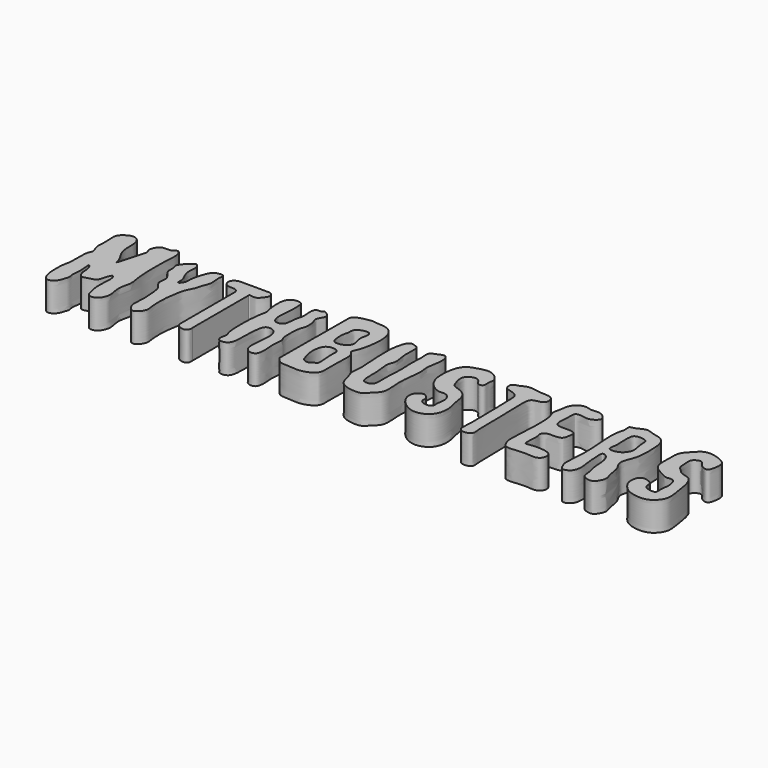
from build123d import *

# Parameters (mm, degrees)
F2_DEPTH = 25.4


with BuildPart() as f2:
    # F1 (on Top) → F2 (new body)
    with BuildSketch(Plane.XY):
        with BuildLine():
            Line((-142.2860773452, -38.4094014174), (-142.2860773452, 23.3894499195))
            add(Edge.make_bspline(
                [(-152.6713359637, 21.594526115), (-153.1771803693, 22.7217631285), (-154.2988937397, 25.2212082836), (-159.9560561375, 24.8308472419), (-164.5034474924, 25.7344627276), (-166.622161351, 31.1073537747), (-163.5537992646, 34.7677524375), (-158.8993441418, 36.2689247946), (-141.4377117289, 35.3749228579), (-132.3859870797, 36.1046084178), (-130.6364055116, 33.3203416743), (-129.9094437676, 30.6511102336), (-132.3672605109, 27.1683127657), (-135.557679478, 23.4682464959), (-138.8716361115, 23.5761678577), (-142.2860773452, 24.353656997), (-142.2860773452, 23.3894499195)],
                knots=[0, 0, 0, 0, 0.0606980225, 0.134584821, 0.2032211881, 0.2743306838, 0.3391929787, 0.4096821174, 0.5473789637, 0.6434270284, 0.6952755767, 0.7463145401, 0.8124020484, 0.8822938121, 0.943952033, 1, 1, 1, 1], degree=3))
            Line((-152.6713359637, 21.594526115), (-152.6713359637, -39.0504685656))
            add(Edge.make_bspline(
                [(-152.6713359637, -39.0504685656), (-152.6713359637, -40.6180419187), (-150.2444642261, -43.0213629379), (-146.2265683695, -44.1348665615), (-142.6522184864, -43.1346027378), (-141.9544729437, -39.9158529267), (-142.2860773452, -38.4094014174)],
                knots=[0, 0, 0, 0, 0.2627475795, 0.5172364834, 0.7398417054, 1, 1, 1, 1], degree=3))
        make_face()
    extrude(amount=F2_DEPTH)


with BuildPart() as f2b:
    # F1 (on Top) → F2, piece 2 (new body)
    with BuildSketch(Plane.XY):
        with BuildLine():
            Line((-67.4247886071, 37.9885549829), (-67.8143637068, -35.8599349881))
            add(Edge.make_bspline(
                [(-67.8143637068, -35.8599349881), (-66.5364691512, -37.7781511572), (-63.5911581325, -41.4856639391), (-56.5649347778, -41.1413050931), (-45.0834045278, -43.1078008538), (-31.9862146184, -37.4022844107), (-32.3049866124, -27.5846030255), (-32.358463573, -13.7024485138), (-31.158540556, -1.3574494584), (-36.456203923, 1.6750159998), (-33.155421013, 7.1651840201), (-31.2479674537, 14.1566456962), (-29.3139291446, 27.3409560098), (-30.8330061337, 38.1534524257), (-37.3335068189, 46.064669939), (-48.3838271485, 45.7075467818), (-51.3372279491, 46.9601499373), (-60.2383692366, 45.343346675), (-67.096746331, 42.9655372685), (-67.4167546076, 39.5114929975), (-67.4247886071, 37.9885549829)],
                knots=[0, 0, 0, 0, 0.049068684, 0.0978564456, 0.1643740975, 0.2321875566, 0.2883539028, 0.3622279897, 0.4279116504, 0.4680293196, 0.5112853989, 0.5643612628, 0.6344777638, 0.697905335, 0.7566658026, 0.817596262, 0.8525039752, 0.9095835984, 0.9600192561, 1, 1, 1, 1], degree=3))
        make_face()
        with BuildLine():
            add(Edge.make_bspline(
                [(-55.9800590662, -7.6233818672), (-56.697632945, -10.3012880669), (-56.9747754002, -16.7373779921), (-54.7405638202, -23.7835299725), (-53.7597568001, -27.4048527781), (-48.5915541423, -30.0694560442), (-45.0751061317, -26.0838641959), (-41.389653836, -26.1639191802), (-43.0339995778, -14.6687681462), (-43.085650511, -9.286578905), (-42.4296034605, -3.6615654466), (-46.7915258454, -1.0653821027), (-53.5317703636, -2.1120353066), (-55.4130045408, -5.5071972149), (-55.9800590662, -7.6233818672)],
                knots=[0, 0, 0, 0, 0.1067302172, 0.2022289415, 0.2691989472, 0.3453617744, 0.4214403266, 0.4772005519, 0.5891606873, 0.6780884871, 0.7554834837, 0.8282487132, 0.9156576703, 1, 1, 1, 1], degree=3))
        make_face(mode=Mode.SUBTRACT)
        with BuildLine():
            add(Edge.make_bspline(
                [(-47.2923524368, 6.0287273361), (-45.7072097202, 6.447780633), (-40.6990830577, 8.7043724838), (-41.0768874086, 15.605416251), (-43.2763380367, 21.5305298637), (-41.6047587324, 26.0548313396), (-41.5765616766, 32.2476702785), (-49.0185812803, 31.8382029118), (-55.0454182301, 28.2793601376), (-53.9774746473, 22.2369826412), (-55.9581287975, 19.1281794579), (-55.5731919073, 5.0363155172), (-49.7661842443, 5.8186070949), (-48.3297823647, 5.7544691087), (-47.2923524368, 6.0287273361)],
                knots=[0, 0, 0, 0, 0.0882352941, 0.1767318524, 0.2648009033, 0.3430150379, 0.4199903602, 0.5072138503, 0.5972574998, 0.676387487, 0.7484876141, 0.8714797493, 0.9422525595, 1, 1, 1, 1], degree=3))
        make_face(mode=Mode.SUBTRACT)
    extrude(amount=F2_DEPTH)


with BuildPart() as f2c:
    # F1 (on Top) → F2, piece 3 (new body)
    with BuildSketch(Plane.XY):
        with BuildLine():
            add(Edge.make_bspline(
                [(-269.3963035655, -37.9042096753), (-270.8515346037, -31.8916332857), (-270.0729861775, -17.7272889713), (-268.1355181955, -14.978017424), (-269.4040028396, 3.8906152953), (-265.9068546868, 6.9320694981), (-267.4915709173, 11.2140477768), (-269.3538442118, 15.4269560487), (-267.9739267583, 24.1477457688), (-269.6137838903, 34.4483798055), (-266.6849616505, 38.6804798542), (-260.5304565827, 42.6958350386), (-254.140674522, 41.8768188306), (-250.7347605869, 34.3975136903), (-251.9262665762, 23.0264973433), (-248.2661888663, 14.8215380309), (-244.4662537378, 9.7211690448), (-243.7956225347, 3.4488536951), (-242.0353095997, 9.405884512), (-239.1182474697, 20.053245978), (-237.3279316341, 27.3911664488), (-236.2263453229, 30.3512418723), (-239.0014091382, 33.6408894185), (-234.5921385711, 43.6732455824), (-225.350879306, 40.7573547661), (-220.9316834054, 46.4775447412), (-217.2326255324, 38.9307847005), (-218.7298088126, 28.7264681158), (-218.7150848075, 7.237339718), (-218.0422825547, -3.3512197097), (-215.5249105056, -13.6080166396), (-219.5891633255, -23.3316261242), (-216.4982325944, -33.729056986), (-217.3691329542, -38.9152997594), (-220.5179542967, -45.2855612155), (-228.3667517466, -46.2316560471), (-230.5354019835, -39.35293214), (-232.5352274531, -28.8185754235), (-230.4502735007, -15.7836437368), (-233.4701754007, -10.3658201351), (-236.2152194831, -17.7026288105), (-237.1868629743, -23.7921417511), (-241.9618312517, -24.8599040169), (-246.3636466157, -26.2713316398), (-249.5848835542, -26.8932864368), (-253.3108078013, -21.7118582654), (-252.2661557505, -14.5445037993), (-257.1582014104, -6.8317266703), (-254.3736099158, -20.2542199768), (-256.7234489893, -28.0696746856), (-254.758223057, -32.0486079397), (-256.6634425207, -36.048530493), (-257.7135113579, -41.4994437557), (-265.0721962803, -46.3539456911), (-268.4532099233, -41.8007885808), (-269.3963035655, -37.9042096753)],
                knots=[0, 0, 0, 0, 0.0312589605, 0.0461393167, 0.0758034148, 0.0902833681, 0.1040527544, 0.1191088212, 0.1402094938, 0.1628006218, 0.1782389883, 0.196950057, 0.2135288996, 0.2326110726, 0.2566173635, 0.2775850674, 0.2961550906, 0.3100249623, 0.3232683716, 0.3481460982, 0.367686444, 0.3791786983, 0.3926688438, 0.4134617737, 0.4338601451, 0.4494406795, 0.4660185494, 0.4896409369, 0.5224254328, 0.5459916993, 0.5681623436, 0.5909127768, 0.6135928199, 0.6297970632, 0.6479136597, 0.6653983581, 0.6826122413, 0.7064788844, 0.7326328474, 0.745505801, 0.7625734213, 0.7802532687, 0.7948766374, 0.8102748133, 0.8221547028, 0.8384345817, 0.8585674443, 0.8737006313, 0.8953182936, 0.9166987524, 0.9303884647, 0.9446296512, 0.9614303086, 0.9797419612, 1, 1, 1, 1], degree=3))
        make_face()
    extrude(amount=F2_DEPTH)


with BuildPart() as f2d:
    # F1 (on Top) → F2, piece 4 (new body)
    with BuildSketch(Plane.XY):
        with BuildLine():
            add(Edge.make_bspline(
                [(-196.052796467, -34.4425679741), (-196.0458743496, -31.5773795615), (-195.2389071824, -23.5677800638), (-196.2904474938, -14.5794404412), (-197.05014522, -5.6795061737), (-204.2380266958, -0.5306035032), (-199.7658369665, 8.6587644524), (-209.3653997117, 15.4332274826), (-207.0736791161, 23.1696796113), (-210.2212412896, 27.1797047342), (-204.0686022414, 33.8904181658), (-198.6156076382, 38.8212341026), (-195.3448478119, 31.9570795166), (-197.4088943131, 25.132712085), (-194.2040475571, 17.1071731185), (-191.8460255175, 13.0548449757), (-192.946609914, 5.9683059506), (-187.7375898593, 11.3847904826), (-188.8780255023, 16.9469288005), (-186.0338183168, 27.2693706043), (-182.8078920922, 35.8755907489), (-172.4829146647, 36.4028864938), (-175.0706716802, 30.4809880566), (-172.6517328789, 21.2346384546), (-176.3069421407, 14.558319315), (-177.1750848856, 8.3426350298), (-182.3880055684, 0.3925405485), (-182.8691704081, -9.4240553455), (-184.286147851, -14.2488743772), (-184.5963888574, -30.7530193609), (-182.0371036634, -37.4679879018), (-190.0096341097, -46.7939704073), (-195.6374427185, -39.4356985754), (-196.0576906332, -36.4683510204), (-196.052796467, -34.4425679741)],
                knots=[0, 0, 0, 0, 0.0375082757, 0.0730778076, 0.1065485782, 0.1377799875, 0.1702792279, 0.206402605, 0.2367307989, 0.2597302788, 0.2933536257, 0.3211464644, 0.3474877672, 0.3787256482, 0.411587405, 0.4380183054, 0.4620311462, 0.485863672, 0.5137802573, 0.5513662684, 0.5858039463, 0.6161321083, 0.6400852941, 0.6756319444, 0.7066446696, 0.7350674493, 0.7704680897, 0.8054975771, 0.8324478267, 0.8782103239, 0.9099038796, 0.9439103662, 0.9734804075, 1, 1, 1, 1], degree=3))
        make_face()
    extrude(amount=F2_DEPTH)


with BuildPart() as f2e:
    # F1 (on Top) → F2, piece 5 (new body)
    with BuildSketch(Plane.XY):
        with BuildLine():
            add(Edge.make_bspline(
                [(-118.1658581891, -37.9042096753), (-118.2874768501, -35.8230188029), (-116.3993075245, -30.804750907), (-120.2656763832, -28.8496250986), (-119.6104316548, 4.9314475971), (-116.540968752, 11.5836790678), (-119.2299051319, 17.9752740947), (-119.803552273, 34.3525590631), (-113.1737085073, 37.9282132563), (-106.6252746317, 37.4675796135), (-105.4964122906, 32.4747681038), (-105.7857397755, 20.7271092386), (-107.4719151093, 10.352796203), (-104.071103856, 3.1370128588), (-97.656060346, 4.2368164636), (-95.6026723726, 8.2915565441), (-95.4787177847, 17.8087162093), (-93.5953304489, 21.5747204482), (-93.8687083732, 26.255471616), (-94.8474395379, 36.85042883), (-87.6360143285, 34.997596673), (-87.255384668, 38.2544909003), (-78.321816408, 32.5074481011), (-86.0085590096, 24.9740821411), (-82.1245848435, 19.741422071), (-82.2367206798, 10.3653611289), (-84.9211043279, 6.6281661935), (-85.2724263162, -11.877274777), (-82.1801213492, -13.6380734294), (-83.6079118706, -21.3018553727), (-83.4351447225, -26.7923209684), (-82.7009772326, -31.9932644551), (-83.1251129135, -37.8450721864), (-84.4286805709, -41.8633112372), (-91.8260869822, -42.4602269348), (-95.9508491341, -33.8923689931), (-91.9571186824, -15.1569941773), (-95.2115518148, -6.2872990638), (-104.4605926235, -4.1642274752), (-106.8982613762, -14.8245691206), (-106.5995416175, -29.9960279597), (-107.7657128713, -40.8437962574), (-116.1691761433, -42.0882313395), (-118.0705138081, -39.5357837599), (-118.1658581891, -37.9042096753)],
                knots=[0, 0, 0, 0, 0.0224391273, 0.0388334109, 0.0887882579, 0.1130941086, 0.1352904784, 0.169674356, 0.1920148442, 0.2124818586, 0.2304068588, 0.26065852, 0.2897981441, 0.3121448314, 0.3317429327, 0.3498571441, 0.3766935528, 0.3943229853, 0.4138842059, 0.4394603087, 0.4587477463, 0.4701466869, 0.4931794381, 0.5179116368, 0.5389810301, 0.5644572899, 0.5848512701, 0.6211044049, 0.6365381164, 0.6596337697, 0.6808278177, 0.7008443659, 0.7220674271, 0.7388847204, 0.7596902706, 0.7845413, 0.8230509129, 0.8488232691, 0.8713172965, 0.8973876025, 0.932959569, 0.960212221, 0.982408582, 1, 1, 1, 1], degree=3))
        make_face()
    extrude(amount=F2_DEPTH)


with BuildPart() as f2f:
    # F1 (on Top) → F2, piece 6 (new body)
    with BuildSketch(Plane.XY):
        with BuildLine():
            add(Edge.make_bspline(
                [(-15.692201127, -22.4549976684), (-15.9740109594, -21.0610469308), (-15.678676264, -18.3983471173), (-15.0092400799, -11.7446465108), (-15.7474782963, -2.7870538064), (-16.5649462975, 10.5424559535), (-16.6514211224, 23.8354573385), (-14.414662468, 33.2171589032), (-11.4526364246, 38.1486197864), (-5.9697898314, 36.197766927), (-3.1060248476, 34.8973553816), (-3.3761363555, 27.4521986665), (-3.808804388, 19.1473393246), (-0.8526039571, 9.0265510305), (-4.8189188491, 3.344820962), (-2.8376328938, -5.8206729914), (-2.7853537181, -16.0096330283), (-2.7263824027, -25.1959463986), (-0.2207037138, -27.4924847945), (5.1207904464, -27.2930290223), (7.8341486693, -23.5042472009), (7.0320438197, -12.2996589484), (7.8210166818, -4.7409480095), (8.3501514199, 5.2179727164), (7.115245808, 16.4222673273), (8.6927956896, 24.7627571735), (6.516462009, 33.2426195361), (13.1712790767, 35.7661691212), (19.7479723097, 38.6998443071), (22.2271179091, 32.3808065208), (21.2699726311, 23.6655056352), (19.5503050514, 15.8837508306), (21.103409716, 8.8913878726), (20.0940562667, 0.0511187589), (18.8058659315, -10.5649307187), (19.1293590398, -16.854594381), (19.8728051342, -24.7540401311), (19.1659593804, -32.51773398), (11.524423446, -38.4068868931), (9.4526436075, -42.5350312447), (-4.1406613633, -42.3885682294), (-12.2095724362, -36.8662192805), (-13.1653461748, -28.7139633553), (-15.3313415257, -24.2399620295), (-15.692201127, -22.4549976684)],
                knots=[0, 0, 0, 0, 0.0173279886, 0.0392221168, 0.0652832586, 0.097118945, 0.1291087385, 0.15594508, 0.1745843465, 0.1938975517, 0.20828008, 0.2304261224, 0.2564732776, 0.2836640685, 0.305214346, 0.330858604, 0.3595571836, 0.3850011102, 0.3995023995, 0.4181687299, 0.4355617194, 0.4640593746, 0.4885837372, 0.5156817758, 0.5447649686, 0.5703963818, 0.5937397945, 0.6153208953, 0.6366738629, 0.6561187566, 0.6821799021, 0.7065626015, 0.7292227653, 0.7552324256, 0.7834584299, 0.8053289555, 0.8293963269, 0.8532570218, 0.8791184969, 0.89686488, 0.9272472072, 0.9536491995, 0.9778113807, 1, 1, 1, 1], degree=3))
        make_face()
    extrude(amount=F2_DEPTH)


with BuildPart() as f2g:
    # F1 (on Top) → F2, piece 7 (new body)
    with BuildSketch(Plane.XY):
        with BuildLine():
            add(Edge.make_bspline(
                [(45.0094272393, -16.8152370122), (46.1010376231, -17.5680087088), (48.9328981858, -19.8728025497), (47.1675845033, -24.1008972103), (51.8093209408, -27.9995035588), (59.5240366859, -26.8213687888), (58.2177912582, -21.4066679289), (60.8386038023, -12.7797925638), (55.6733042282, -5.7207284725), (49.0962285667, -7.3178027819), (41.7421414721, -4.045493163), (34.8020606149, 4.3920219978), (33.9065949935, 18.0301579845), (37.0585720364, 32.797535378), (46.4324592285, 36.2788304693), (52.7055023144, 37.9367557839), (59.8478044852, 38.8711203911), (69.1686697811, 30.8620408815), (66.3934604295, 25.6185840654), (68.2070454609, 19.3035523735), (62.2599961856, 17.6388657008), (59.9723538795, 23.924609988), (54.1918209343, 25.4027145342), (46.6867872742, 20.3686369357), (49.4217464682, 11.4321907259), (51.1125657651, 6.2724732646), (55.8586394544, 5.0749767613), (61.8724293346, 2.6849271237), (66.6641780754, -2.6127329204), (67.3803988163, -12.7927822684), (69.55142123, -18.2049804477), (70.2001252727, -28.339666199), (66.622123179, -35.2369965134), (63.327213434, -38.3973035584), (54.2885055482, -41.6958893738), (44.0915357035, -37.5736437907), (36.0319900603, -28.8765430841), (35.9318602268, -19.1956008473), (42.6289192571, -15.4418058713), (44.1897724104, -16.2500051628), (45.0094272393, -16.8152370122)],
                knots=[0, 0, 0, 0, 0.0209353385, 0.0401401641, 0.0627987156, 0.0875602971, 0.1083339103, 0.1381070058, 0.1647102517, 0.1890270195, 0.216467102, 0.2484065985, 0.2853414238, 0.3228049652, 0.3525533273, 0.3778518236, 0.4041855449, 0.4363298118, 0.4590627122, 0.4824340973, 0.5019969272, 0.525754409, 0.548524217, 0.5756240917, 0.6046911273, 0.6272225181, 0.6480924229, 0.6732556266, 0.6993602846, 0.7303877736, 0.7550413021, 0.7862347797, 0.8134269915, 0.8343623267, 0.8639042602, 0.8965080218, 0.9302725229, 0.9592685095, 0.9842803334, 1, 1, 1, 1], degree=3))
        make_face()
    extrude(amount=F2_DEPTH)


with BuildPart() as f2h:
    # F1 (on Top) → F2, piece 8 (new body)
    with BuildSketch(Plane.XY):
        with BuildLine():
            add(Edge.make_bspline(
                [(94.8767818366, -40.1163522642), (94.2305591167, -38.7965185413), (94.688842429, -34.9482506598), (95.062129899, -27.9096037378), (94.4025545685, 5.4716448694), (94.2424462327, 20.0523022686), (91.7255713267, 22.7168810522), (87.2210633709, 24.7057269583), (80.8476454281, 25.611596027), (80.4446841952, 33.3096292114), (86.7168720887, 33.9382358623), (92.6170152099, 38.3409515665), (103.3877356028, 34.900555296), (114.0506540829, 36.1363155375), (116.8280870304, 30.2077273109), (115.6375227786, 25.7327742263), (111.681155597, 24.3691453203), (103.5560863839, 23.7414726464), (104.8746538361, 7.7538201415), (104.9637553251, -18.3919586717), (105.0304559536, -34.53425997), (106.3802795486, -41.5600864017), (98.8600373763, -43.491514282), (95.5403725217, -41.4716580087), (94.8767818366, -40.1163522642)],
                knots=[0, 0, 0, 0, 0.0339225572, 0.076544741, 0.169053136, 0.2287660434, 0.2554415978, 0.2902433548, 0.3284447921, 0.364991038, 0.4011734361, 0.4425599299, 0.4950690055, 0.5450645446, 0.5810645094, 0.6126466337, 0.6439193236, 0.683097955, 0.7410594552, 0.8249054222, 0.8887514533, 0.9258339726, 0.9651657358, 1, 1, 1, 1], degree=3))
        make_face()
    extrude(amount=F2_DEPTH)


with BuildPart() as f2i:
    # F1 (on Top) → F2, piece 9 (new body)
    with BuildSketch(Plane.XY):
        with BuildLine():
            add(Edge.make_bspline(
                [(130.9415617663, -31.2114675147), (130.6770991658, -23.330620723), (134.3304721674, 9.3577401307), (128.1593268503, 17.7314891699), (130.5797669977, 23.0200827707), (130.6788199042, 33.6850703708), (140.4573840222, 40.1642048288), (146.9850367888, 36.5347886814), (152.6567540245, 38.2779804551), (158.4179116748, 36.2131046457), (163.2691059513, 30.1563214527), (154.5349616626, 24.412420957), (148.7147836816, 26.8099186927), (141.5743044182, 26.3539841552), (142.5744754554, 21.5112214598), (140.2608644682, 8.7108642709), (143.9931158516, 4.0457367637), (151.9443962754, 4.8386713766), (160.5987780398, 4.0343608882), (159.4268018017, -2.949078217), (158.5375540178, -8.1190924207), (152.118659283, -9.1205268225), (143.8791729561, -8.3723412959), (141.5602739612, -13.5968930056), (143.8697755234, -17.0271723709), (141.4792336808, -31.0207635914), (146.9070461021, -29.0168001837), (164.9779748544, -28.4381865274), (167.345572737, -37.0254353921), (162.4105413923, -43.022365458), (151.3324032895, -39.9978363369), (134.7400756292, -44.0483145571), (132.0091905811, -36.1486049833), (131.0405780757, -34.1621016029), (130.9415617663, -31.2114675147)],
                knots=[0, 0, 0, 0, 0.0709850418, 0.1058789106, 0.1305264891, 0.1663779359, 0.2016962897, 0.2305834918, 0.2568780069, 0.2843669878, 0.311325392, 0.3427139149, 0.3717480144, 0.3981425375, 0.4202976619, 0.4606098751, 0.4851226453, 0.5165952665, 0.546680466, 0.5733269492, 0.5977446143, 0.6248221732, 0.656369912, 0.6791393534, 0.7025723214, 0.7409661375, 0.7621646296, 0.8085583948, 0.8371671469, 0.864383927, 0.9020416872, 0.9463058566, 0.9734227946, 1, 1, 1, 1], degree=3))
        make_face()
    extrude(amount=F2_DEPTH)


with BuildPart() as f2j:
    # F1 (on Top) → F2, piece 10 (new body)
    with BuildSketch(Plane.XY):
        with BuildLine():
            add(Edge.make_bspline(
                [(182.5050618589, -35.8390387575), (181.9824154121, -32.2436346848), (184.238273521, -15.8573955341), (182.2866999037, 3.4180917985), (181.1830005183, 21.3568763693), (184.3994921255, 28.0650602372), (182.5717403484, 34.3727383102), (187.640572994, 33.966853151), (195.1089202451, 39.6387743561), (202.4491760603, 35.5002120937), (210.3633522009, 35.0708413438), (215.4327228904, 29.0371862932), (216.626407311, 19.1261952321), (216.6198905456, 2.6844727337), (211.9568947312, -6.6206210959), (211.04773004, -13.2561329375), (216.3706781525, -19.5491503227), (216.702469604, -29.4838415499), (220.2135052081, -36.0143300933), (215.3965069406, -44.7482846115), (210.5639335808, -45.2728506616), (203.5641718731, -42.7480626785), (204.3117997211, -35.6174962238), (201.2546171455, -28.0060288852), (201.7879316875, -17.2330798002), (198.4631593428, -9.063849619), (193.1756296852, -7.9357989913), (193.2576216531, -12.7469610123), (194.0385572295, -26.1369808357), (195.3917052769, -30.7936382154), (195.0996758259, -41.719217537), (185.4501447766, -45.11136929), (183.9319254409, -39.0356013325), (182.7417858329, -37.4675169492), (182.5050618589, -35.8390387575)],
                knots=[0, 0, 0, 0, 0.0473266519, 0.0982545561, 0.143653863, 0.1733446161, 0.1972031476, 0.218047783, 0.2502787138, 0.2807479476, 0.3109829261, 0.3396176843, 0.3742203561, 0.4187727645, 0.4540065853, 0.4806095808, 0.5109692509, 0.545065737, 0.5744310046, 0.6063436989, 0.6296439315, 0.6569596054, 0.6841467503, 0.715543245, 0.7518802696, 0.7835167454, 0.8041012727, 0.8250514333, 0.865224169, 0.8911962718, 0.9252927525, 0.9549945493, 0.9785641839, 1, 1, 1, 1], degree=3))
        make_face()
        with BuildLine():
            add(Edge.make_bspline(
                [(193.1320268364, 15.4973628823), (192.9790708887, 18.8988458474), (192.831588509, 25.3217178413), (198.421183484, 26.6750200618), (206.4557725256, 25.6215687741), (205.4171125237, 17.9955438897), (208.3186971818, 9.1866707222), (205.6342501885, 3.4682485842), (201.3955363193, -0.6407303458), (191.422081544, -1.4991074021), (193.7008765076, 6.3262425404), (193.2913123015, 11.9551220978), (193.1320268364, 15.4973628823)],
                knots=[0, 0, 0, 0, 0.1138557248, 0.1965059228, 0.2937442825, 0.3896537281, 0.5047805543, 0.595485264, 0.6884469059, 0.7911291461, 0.8814327762, 1, 1, 1, 1], degree=3))
        make_face(mode=Mode.SUBTRACT)
    extrude(amount=F2_DEPTH)


with BuildPart() as f2k:
    # F1 (on Top) → F2, piece 11 (new body)
    with BuildSketch(Plane.XY):
        with BuildLine():
            add(Edge.make_bspline(
                [(234.9858985135, 24.5924737672), (236.2575458074, 27.6577760847), (241.0791191302, 32.1965531927), (245.5442107447, 37.2776869547), (253.1161096472, 38.2152464445), (262.6472721818, 35.1560945544), (267.4714872123, 31.3176243337), (267.7886323784, 26.4367342507), (266.3861335511, 18.0089368121), (262.6008145905, 17.1417518298), (257.5266782531, 19.9232286304), (254.5810087749, 26.3887046499), (246.3462928624, 22.3158265411), (247.4959204424, 15.7060087796), (247.1920243521, 8.8027529804), (251.356723132, 5.6200132259), (254.5249767841, 1.6346226389), (263.0949051108, 1.084315288), (266.9911675836, -6.7716845307), (268.7609431173, -18.511716612), (270.7620426992, -30.2419239702), (268.1489185206, -36.9750317665), (260.4026615716, -44.650764425), (244.9868970919, -42.7562146497), (238.6423810994, -37.9202464286), (233.3357843413, -30.6885185935), (234.1780885448, -22.6463159223), (237.7297681787, -18.6169386275), (244.4995601099, -20.5646640157), (247.2977874758, -22.688775025), (247.2636440842, -28.8991861626), (251.8740913829, -30.6117633269), (259.1054377597, -31.5313054053), (257.6377960851, -24.7662014044), (259.6672891457, -17.6906184534), (257.1320060364, -7.2991230806), (249.5812879264, -9.7033062941), (244.8973966047, -6.54078341), (233.1385597622, -1.1300746296), (234.1498429392, 12.9785907544), (233.594396465, 21.2382618919), (234.9858985135, 24.5924737672)],
                knots=[0, 0, 0, 0, 0.0300268572, 0.0544294231, 0.0799490446, 0.1103673672, 0.1329700916, 0.1539252887, 0.1808997031, 0.1973440444, 0.2197992116, 0.2432008965, 0.2675901681, 0.2915307456, 0.3161208176, 0.3370022758, 0.3581563171, 0.3845436446, 0.4113439925, 0.444997799, 0.4777112199, 0.5026421847, 0.5327931952, 0.5691543356, 0.5962906338, 0.6241179166, 0.6504137057, 0.6707556597, 0.6948303854, 0.712373914, 0.7342882005, 0.7550197751, 0.7776078939, 0.7988739709, 0.8263038639, 0.8542864562, 0.87754233, 0.9003041072, 0.9325986703, 0.9671430644, 1, 1, 1, 1], degree=3))
        make_face()
    extrude(amount=F2_DEPTH)


solid = Compound([f2.part, f2b.part, f2c.part, f2d.part, f2e.part, f2f.part, f2g.part, f2h.part, f2i.part, f2j.part, f2k.part])
